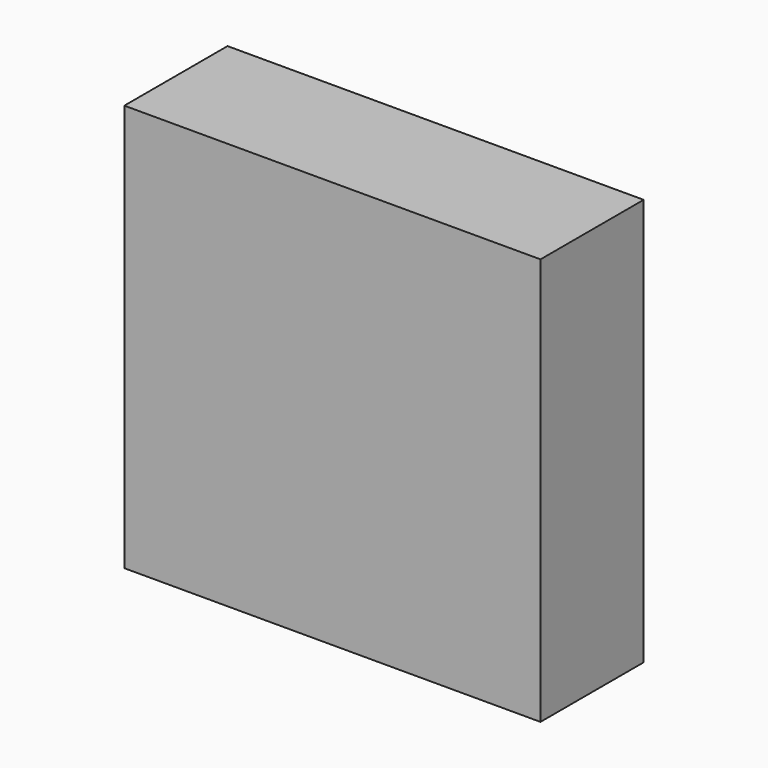
from build123d import *

# Parameters (mm, degrees)
F1_W     = 156.00127
F1_H     = 152.658448
F2_DEPTH = 48.35261


with BuildPart() as f2:
    # F1 (on face) → F2 (new body)
    with BuildSketch(Plane.XZ):
        Rectangle(F1_W, F1_H)
    extrude(amount=F2_DEPTH)


solid = f2.part
